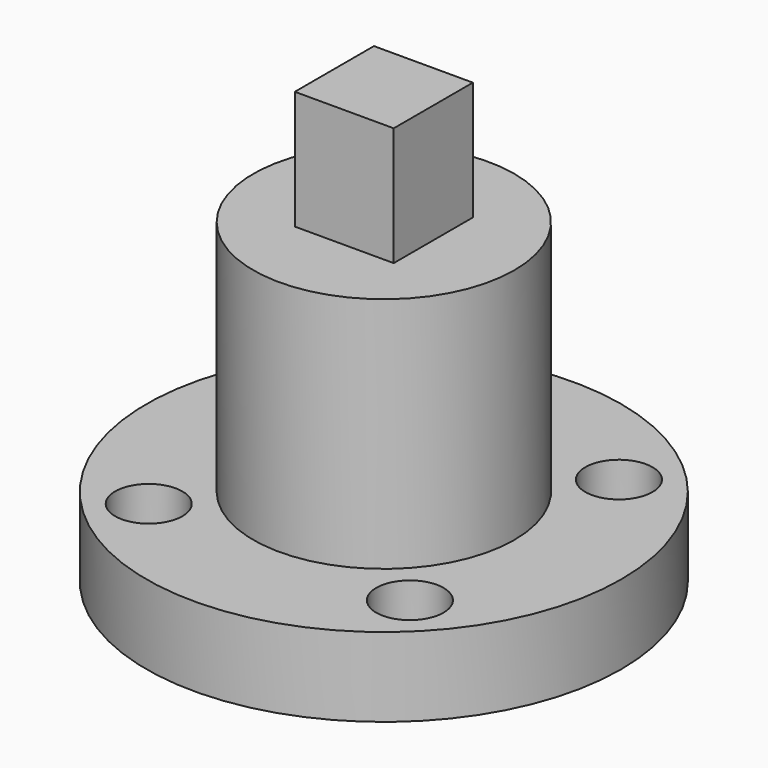
from build123d import *

# Parameters (mm, degrees)
F0_R     = 30
F0_R_2   = 4.25
F1_DEPTH = 10
F2_R     = 16.5
F3_DEPTH = 30
F4_W     = 12.5
F4_H     = 12.5
F5_DEPTH = 15


with BuildPart() as f1:
    # F0 (on Top) → F1 (new body)
    with BuildSketch(Plane.XY):
        Circle(F0_R)
        with Locations((-16.5, -16.51)):
            Circle(F0_R_2, mode=Mode.SUBTRACT)
        with Locations((16.5, -16.51)):
            Circle(F0_R_2, mode=Mode.SUBTRACT)
        with Locations((-16.5, 16.51)):
            Circle(F0_R_2, mode=Mode.SUBTRACT)
        with Locations((16.5, 16.51)):
            Circle(F0_R_2, mode=Mode.SUBTRACT)
    extrude(amount=F1_DEPTH)

    # F2 (on face) → F3 (join)
    with BuildSketch(Plane.XY.offset(10)):
        Circle(F2_R)
    extrude(amount=F3_DEPTH)

    # F4 (on face) → F5 (join)
    with BuildSketch(Plane.XY.offset(40)):
        Rectangle(F4_W, F4_H)
    extrude(amount=F5_DEPTH)


solid = f1.part
